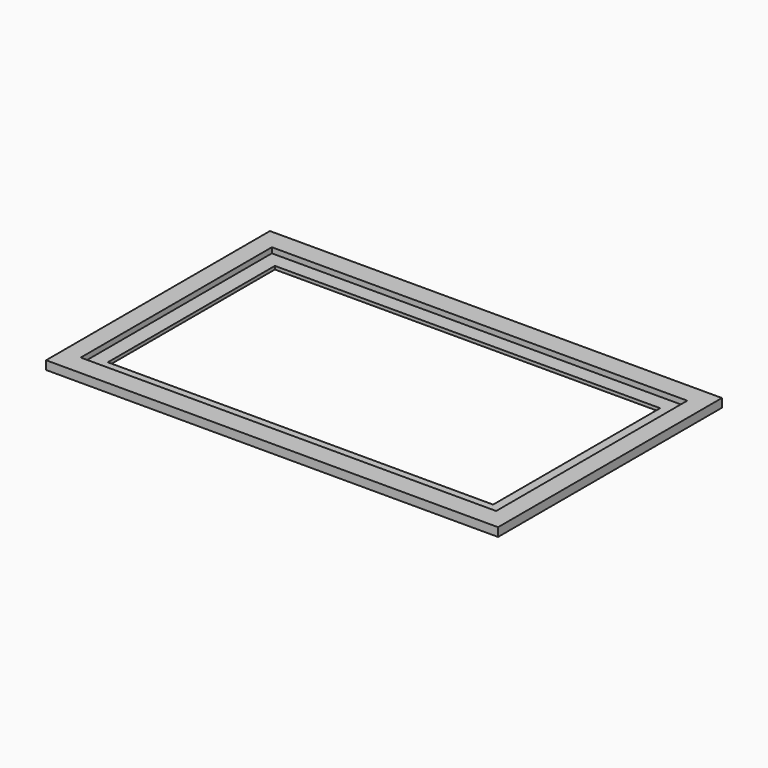
from build123d import *

# Parameters (mm, degrees)
F0_W     = 210
F0_H     = 130
F0_W_2   = 193
F0_H_2   = 111
F1_DEPTH = 4
F0_W_3   = 179
F0_H_3   = 97
F2_DEPTH = 1.5


with BuildPart() as f1:
    # F0 (on Top) → F1 (new body)
    with BuildSketch(Plane.XY):
        with Locations((48.212263, 14.238792)):
            Rectangle(F0_W, F0_H)
        with Locations((48.212263, 14.238792)):
            Rectangle(F0_W_2, F0_H_2, mode=Mode.SUBTRACT)
    extrude(amount=F1_DEPTH)

    # F0 (on Top) → F2 (join)
    with BuildSketch(Plane.XY):
        with Locations((48.212263, 14.238792)):
            Rectangle(F0_W_2, F0_H_2)
        with Locations((48.212263, 14.238792)):
            Rectangle(F0_W_3, F0_H_3, mode=Mode.SUBTRACT)
    extrude(amount=F2_DEPTH)


solid = f1.part
